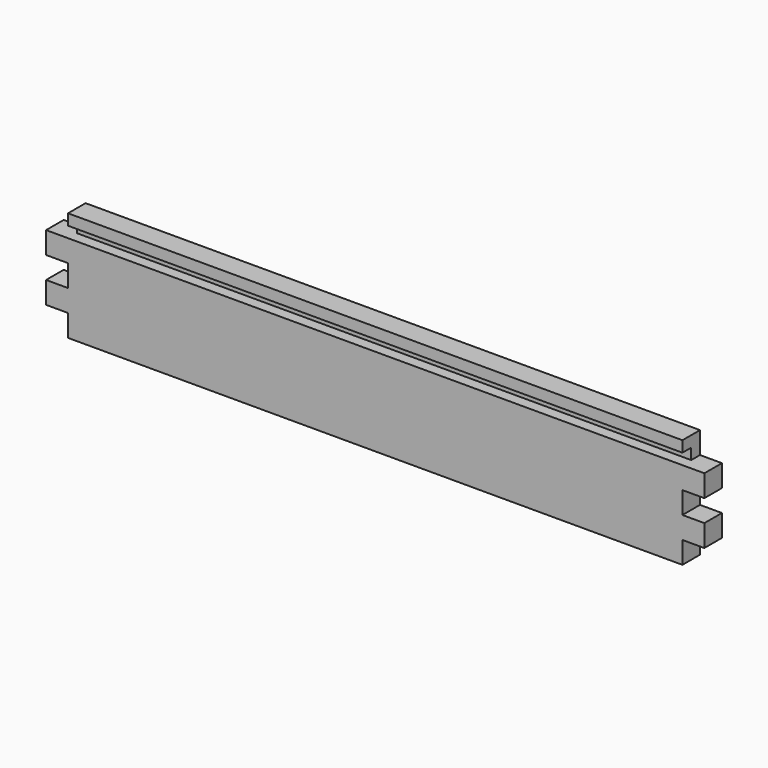
from build123d import *

# Parameters (mm, degrees)
F0_W     = 600
F0_H     = 100
F1_DEPTH = 20
F2_W     = 20
F2_H     = 20
F3_DEPTH = 20
F4_W     = 600
F4_H     = 10
F5_DEPTH = 10


with BuildPart() as f1:
    # F0 (on Front) → F1 (new body)
    with BuildSketch(Plane.XZ):
        Rectangle(F0_W, F0_H)
    extrude(amount=F1_DEPTH)

    # F2 (on face) → F3 (cut, through all)
    with BuildSketch(Plane(origin=(0, 0, 0), x_dir=(-1, 0, 0), z_dir=(0, 1, 0))):
        with Locations((-290, -40)):
            Rectangle(F2_W, F2_H)
        with Locations((-290, 0)):
            Rectangle(F2_W, F2_H)
        with Locations((290, 0)):
            Rectangle(F2_W, F2_H)
        with Locations((290, -40)):
            Rectangle(F2_W, F2_H)
        with Locations((290, 40)):
            Rectangle(F2_W, F2_H)
        with Locations((-290, 40)):
            Rectangle(F2_W, F2_H)
    extrude(amount=-F3_DEPTH, mode=Mode.SUBTRACT)

    # F4 (on face) → F5 (cut)
    with BuildSketch(Plane.XZ.offset(20)):
        with Locations((0, 35)):
            Rectangle(F4_W, F4_H)
    extrude(amount=-F5_DEPTH, mode=Mode.SUBTRACT)


solid = f1.part
